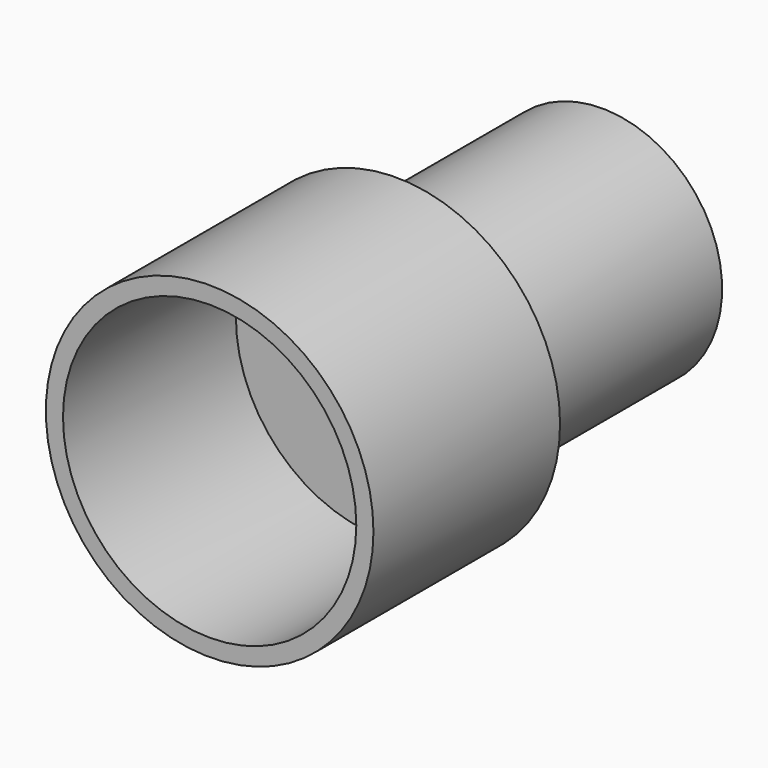
from build123d import *

# Parameters (mm, degrees)
F0_R     = 2.4257
F1_DEPTH = 3.4544
F2_T     = -0.254
F3_R     = 1.778
F4_DEPTH = 3.81
F5_T     = -0.254


with BuildPart() as f1:
    # F0 (on Front) → F1 (new body)
    with BuildSketch(Plane.XZ):
        Circle(F0_R)
    extrude(amount=F1_DEPTH)

    # F2
    f2_openings = [f1.faces().sort_by_distance(p)[0] for p in [
        (0, -3.4544, 0),
    ]]
    offset(amount=F2_T, openings=f2_openings)

    # F3 (on face) → F4 (join)
    with BuildSketch(Plane(origin=(0, 0, 0), x_dir=(-1, 0, 0), z_dir=(0, 1, 0))):
        Circle(F3_R)
    extrude(amount=F4_DEPTH)

    # F5
    f5_openings = [f1.faces().sort_by_distance(p)[0] for p in [
        (0, 3.81, 0),
    ]]
    offset(amount=F5_T, openings=f5_openings, kind=Kind.INTERSECTION)


solid = f1.part
